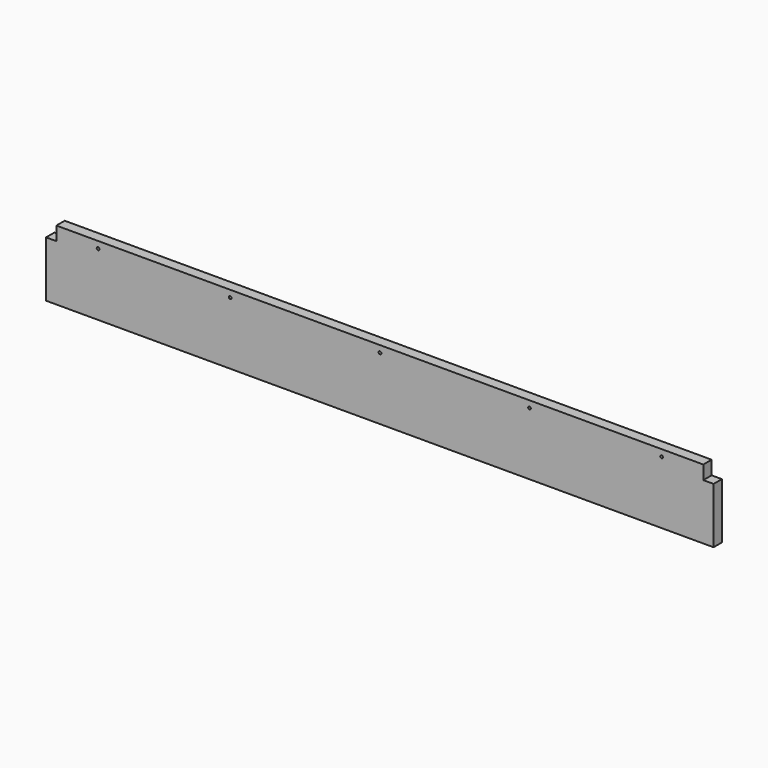
from build123d import *

# Parameters (mm, degrees)
F0_W     = 1219.2
F0_H     = 127
F1_DEPTH = 19.05
F2_W     = 18.75663
F2_H     = 25.10663
F3_DEPTH = 19.051
F5_D     = 5


with BuildPart() as f1:
    # F0 (on Front) → F1 (new body)
    with BuildSketch(Plane.XZ):
        Rectangle(F0_W, F0_H)
    extrude(amount=F1_DEPTH)

    # F2 (on face) → F3 (cut, through all)
    with BuildSketch(Plane.XZ.offset(19.05)):
        with Locations((-600.221685, 50.946685)):
            Rectangle(F2_W, F2_H)
        with Locations((600.221685, 50.946685)):
            Rectangle(F2_W, F2_H)
    extrude(amount=-F3_DEPTH, mode=Mode.SUBTRACT)

    # F5 (through all)
    with Locations(Plane.XZ.offset(19.05)):
        with Locations((-514.64337, 51.09337), (-273.34337, 51.09337), (0.29337, 51.09337), (273.34337, 51.09337), (514.64337, 51.09337)):
            Hole(F5_D / 2)


solid = f1.part
